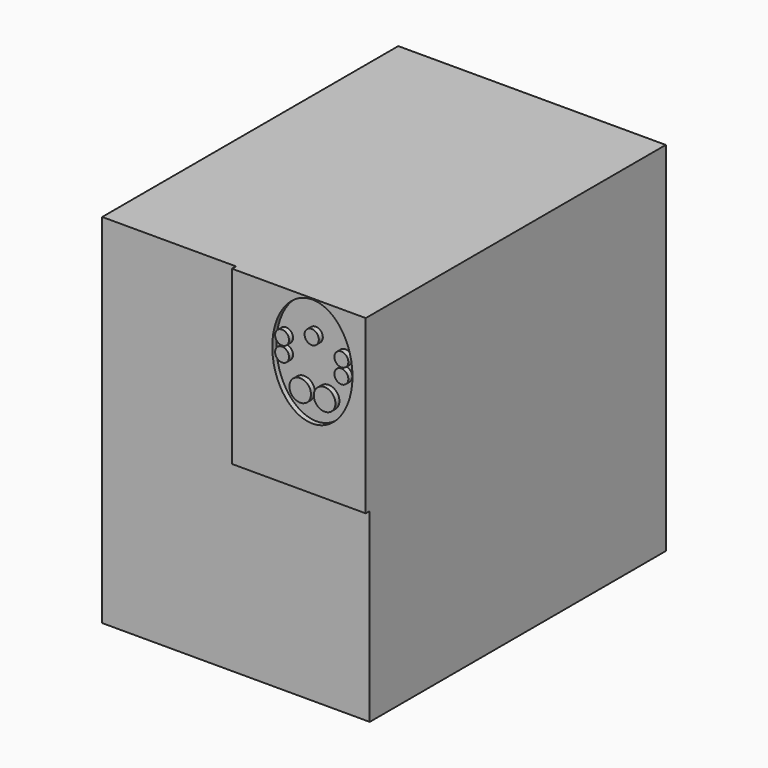
from build123d import *

# Parameters (mm, degrees)
F0_W     = 107
F0_H     = 143
F1_DEPTH = 150
F2_R     = 4.323651
F2_R_2   = 2.791757
F2_R_3   = 2.846632
F3_DEPTH = 2


with BuildPart() as f1:
    # F0 (on Front) → F1 (new body)
    with BuildSketch(Plane.XZ):
        Rectangle(F0_W, F0_H)
    extrude(amount=F1_DEPTH)

    # F2 (on face) → F3 (cut)
    with BuildSketch(Plane.XZ.offset(150)):
        Polygon((0, 2.735703), (0, 71.5), (-53.5, 71.5), (-53.5, -71.5), (53.5, -71.5), (53.5, 2.735703), align=None)
        with BuildLine():
            add(Edge.make_bspline(
                [(32.156896, 71.087648), (4.381343, 71.087648), (18.26912, 38.336808), (32.156896, 5.585968), (46.044672, 38.336808), (59.932449, 71.087648), (32.156896, 71.087648)],
                knots=[0, 0, 0, 2.094395, 2.094395, 4.18879, 4.18879, 6.283185, 6.283185, 6.283185], degree=2, weights=[1, 0.5, 1, 0.5, 1, 0.5, 1]))
        make_face()
        with Locations((27.2741, 37.51456)):
            Circle(F2_R, mode=Mode.SUBTRACT)
        with Locations((37.039692, 37.51456)):
            Circle(F2_R, mode=Mode.SUBTRACT)
        with Locations((20.027298, 47.778893)):
            Circle(F2_R_2, mode=Mode.SUBTRACT)
        with Locations((20.027298, 53.766761)):
            Circle(F2_R_2, mode=Mode.SUBTRACT)
        with Locations((31.879108, 57.805846)):
            Circle(F2_R_3, mode=Mode.SUBTRACT)
        with Locations((43.730918, 47.778893)):
            Circle(F2_R_2, mode=Mode.SUBTRACT)
        with Locations((43.730918, 53.766761)):
            Circle(F2_R_2, mode=Mode.SUBTRACT)
    extrude(amount=-F3_DEPTH, mode=Mode.SUBTRACT)


solid = f1.part
